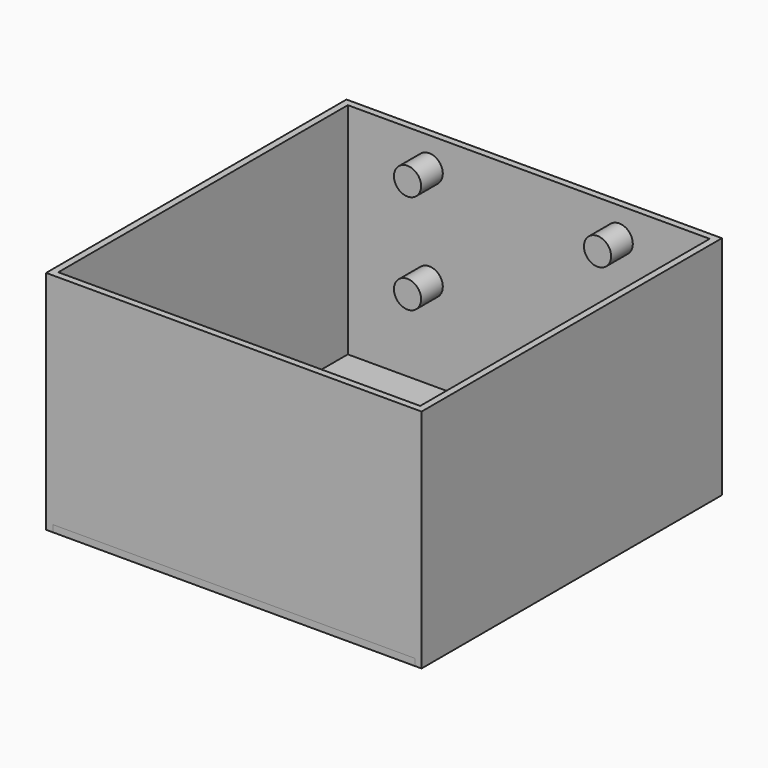
from build123d import *

# Parameters (mm, degrees)
F1_DEPTH = 5
F0_W     = 83
F0_H     = 83
F0_W_2   = 80
F0_H_2   = 80
F2_DEPTH = 50
F3_W     = 80
F3_H     = 1.5
F4_DEPTH = 83
F5_R     = 3
F6_DEPTH = 6


with BuildPart() as f1:
    # F0 (on Top) → F1 (new body)
    with BuildSketch(Plane.XY):
        Polygon((20, 15), (15, 15), (15, 20), (10, 20), (10, 10), (20, 10), align=None)
        Polygon((60, 70), (60, 65), (65, 65), (65, 60), (70, 60), (70, 70), align=None)
    extrude(amount=F1_DEPTH)


with BuildPart() as f2:
    # F0 (on Top) → F2 (new body)
    with BuildSketch(Plane.XY):
        with Locations((40, 40)):
            Rectangle(F0_W, F0_H)
        with Locations((40, 40)):
            Rectangle(F0_W_2, F0_H_2, mode=Mode.SUBTRACT)
    extrude(amount=F2_DEPTH)

    # F5 (on face) → F6 (join)
    with BuildSketch(Plane.XZ.offset(-80)):
        with Locations((18, 43.5)):
            Circle(F5_R)
        with Locations((60, 43.5)):
            Circle(F5_R)
        with Locations((18, 21.5)):
            Circle(F5_R)
        with Locations((60, 21.5)):
            Circle(F5_R)
    extrude(amount=F6_DEPTH)


with BuildPart() as f4:
    # F3 (on face) → F4 (new body)
    with BuildSketch(Plane.XZ.offset(1.5)):
        with Locations((40, 0.75)):
            Rectangle(F3_W, F3_H)
    extrude(amount=-F4_DEPTH)


solid = Compound([f1.part, f2.part, f4.part])
